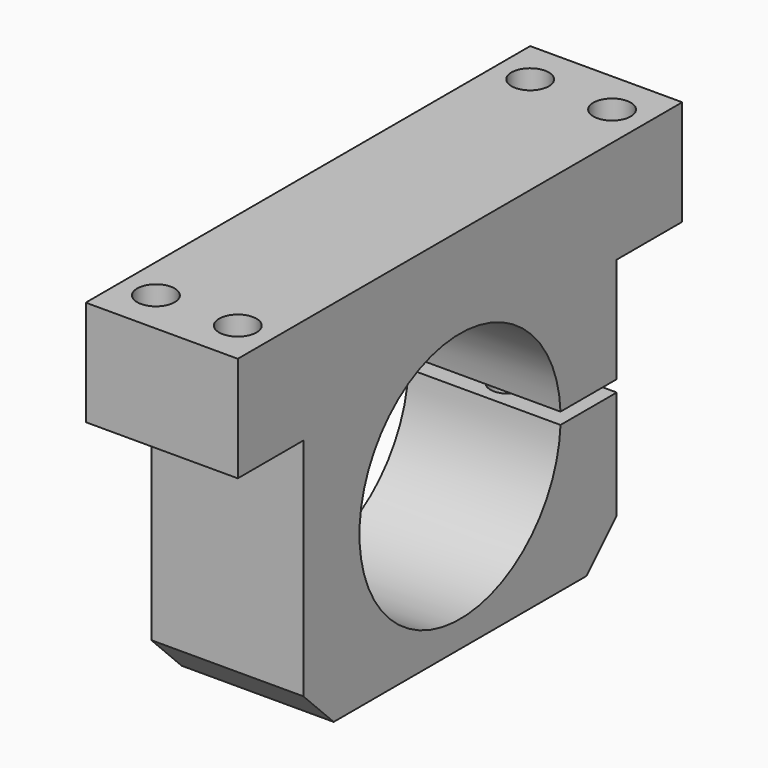
from build123d import *

# Parameters (mm, degrees)
F1_DEPTH       = 26
F3_D           = 6.4
F5_D           = 6
F5_DEPTH       = 46
F5_START       = 5
F5_CBORE_D     = 11
F5_CBORE_DEPTH = 6
F5_TIP         = 1.8025818571


with BuildPart() as f1:
    # F0 (on Right) → F1 (new body)
    with BuildSketch(Plane.YZ):
        with BuildLine():
            Line((-33.5, 6.5), (-27, 0))
            Line((-27, 0), (27, 0))
            Line((27, 0), (33.5, 6.5))
            Line((33.5, 6.5), (33.5, 25))
            Line((33.5, 25), (21.4767315949, 25))
            ThreePointArc((21.4767315949, 25), (-21.5, 26), (21.4767315949, 27))
            Line((21.4767315949, 27), (33.5, 27))
            Line((33.5, 27), (33.5, 45))
            Line((33.5, 45), (47.5, 45))
            Line((47.5, 45), (47.5, 63))
            Line((47.5, 63), (-47.5, 63))
            Line((-47.5, 63), (-47.5, 45))
            Line((-47.5, 45), (-33.5, 45))
            Line((-33.5, 45), (-33.5, 6.5))
        make_face()
    extrude(amount=F1_DEPTH)

    # F3 (through all)
    with Locations(Plane(origin=(0, 0, 45), x_dir=(1, 0, 0), z_dir=(0, 0, -1))):
        with Locations((6, 40), (20, 40), (20, -40), (6, -40)):
            Hole(F3_D / 2)

    # F5
    # its depths count from where the whole tool has entered the part; down to there all is cleared
    with Locations(Plane(origin=(0, 0, 0), x_dir=(1, 0, 0), z_dir=(0, 0, -1)).offset(-F5_START)):
        with Locations((13, -26.5)):
            CounterBoreHole(F5_D / 2, F5_CBORE_D / 2, F5_CBORE_DEPTH, depth=F5_DEPTH)
            with Locations((0, 0, -(F5_DEPTH + F5_TIP / 2))):  # 118° drill point
                Cone(0, F5_D / 2, F5_TIP, mode=Mode.SUBTRACT)


solid = f1.part
